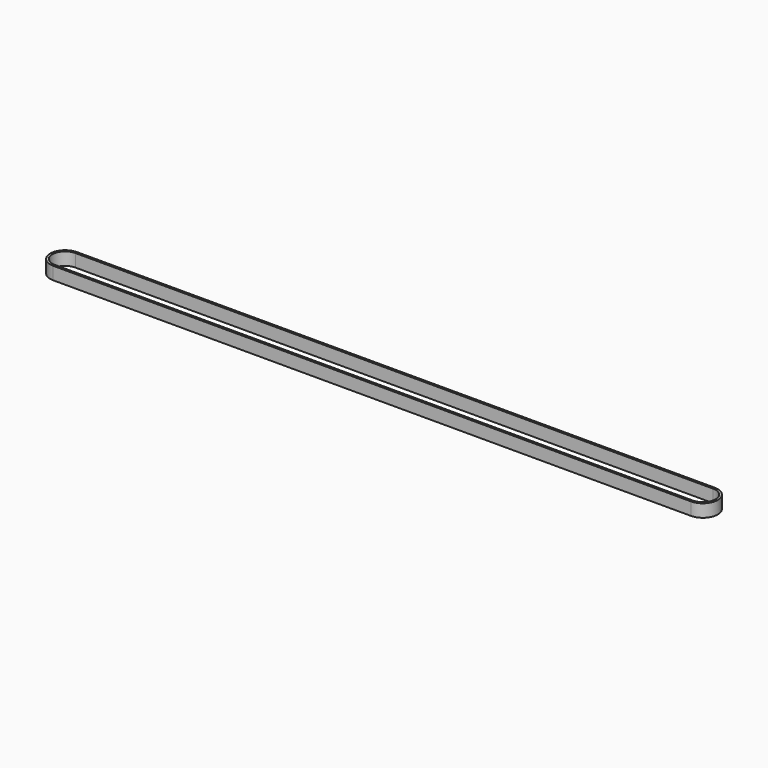
from build123d import *

# Parameters (mm, degrees)
F1_DEPTH = 6


with BuildPart() as f1:
    # F0 (on Top) → F1 (new body)
    with BuildSketch(Plane.XY):
        with BuildLine():
            Line((300, 7), (0, 7))
            ThreePointArc((0, 7), (-7, 0), (0, -7))
            Line((0, -7), (300, -7))
            ThreePointArc((300, -7), (307, 0), (300, 7))
        make_face()
        with BuildLine():
            Line((300, -6), (0, -6))
            ThreePointArc((0, -6), (-6, 0), (0, 6))
            Line((0, 6), (300, 6))
            ThreePointArc((300, 6), (306, 0), (300, -6))
        make_face(mode=Mode.SUBTRACT)
    extrude(amount=F1_DEPTH)


solid = f1.part
